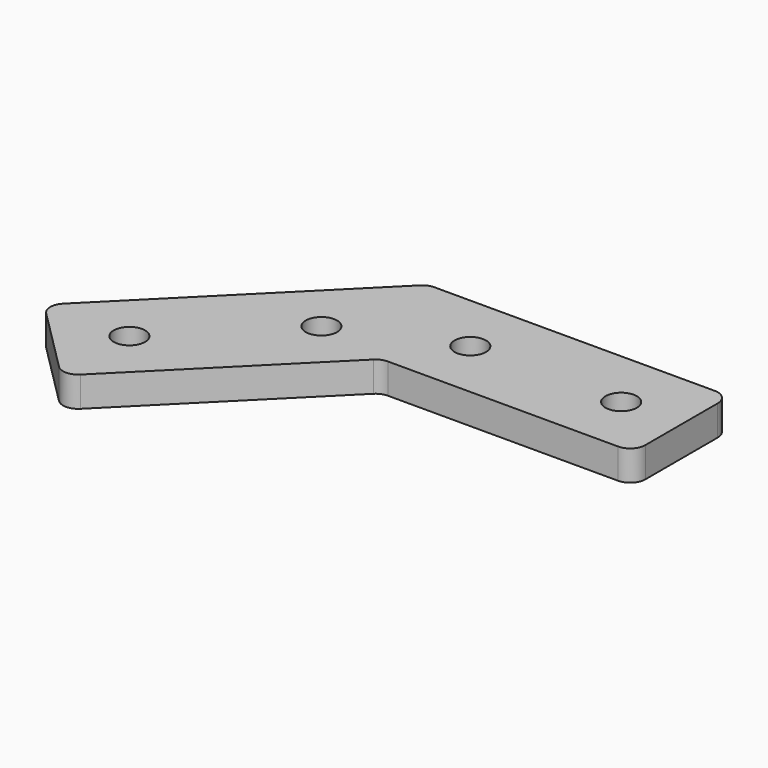
from build123d import *

# Parameters (mm, degrees)
F0_R     = 2.6
F1_DEPTH = 5


with BuildPart() as f1:
    # F0 (on Top) → F1 (new body)
    with BuildSketch(Plane.XY):
        with BuildLine():
            Line((47.5, 0), (1.035534, 0))
            ThreePointArc((1.035534, 0), (0.078825, -0.190301), (-0.732233, -0.732233))
            Line((-0.732233, -0.732233), (-33.587572, -33.587572))
            ThreePointArc((-33.587572, -33.587572), (-34.319805, -35.355339), (-33.587572, -37.123106))
            Line((-33.587572, -37.123106), (-22.98097, -47.729708))
            ThreePointArc((-22.98097, -47.729708), (-21.213203, -48.461941), (-19.445436, -47.729708))
            Line((-19.445436, -47.729708), (7.552038, -20.732233))
            ThreePointArc((7.552038, -20.732233), (8.363097, -20.190301), (9.319805, -20))
            Line((9.319805, -20), (47.5, -20))
            ThreePointArc((47.5, -20), (49.267767, -19.267767), (50, -17.5))
            Line((50, -17.5), (50, -2.5))
            ThreePointArc((50, -2.5), (49.267767, -0.732233), (47.5, 0))
        make_face()
        with Locations((-21.213203, -35.355339)):
            Circle(F0_R, mode=Mode.SUBTRACT)
        with Locations((-3.535534, -17.67767)):
            Circle(F0_R, mode=Mode.SUBTRACT)
        with Locations((15, -10)):
            Circle(F0_R, mode=Mode.SUBTRACT)
        with Locations((40, -10)):
            Circle(F0_R, mode=Mode.SUBTRACT)
    extrude(amount=F1_DEPTH)


solid = f1.part
